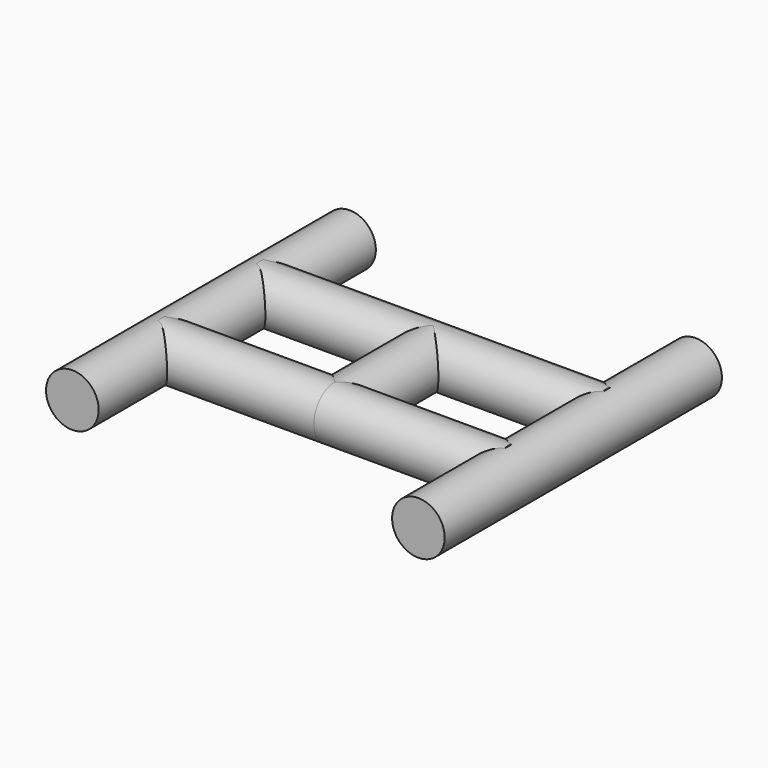
from build123d import *

# Parameters (mm, degrees)
F0_R     = 30
F1_DEPTH = 197.5
F2_DEPTH = 70
F4_DEPTH = 197.5


with BuildPart() as f1:
    # F0 (on Front) → F1 (new body, symmetric)
    with BuildSketch(Plane.XZ):
        with Locations((-197.25, -0.4860334448)):
            Circle(F0_R)
    extrude(amount=F1_DEPTH, both=True)



with BuildPart() as f1b:
    # F0 (on Front) → F1, piece 2 (new body, symmetric)
    with BuildSketch(Plane.XZ):
        with Locations((197.25, -0.4860334448)):
            Circle(F0_R)
    extrude(amount=F1_DEPTH, both=True)


with BuildPart() as f2:
    # F0 (on Front) → F2 (new body, symmetric)
    with BuildSketch(Plane.XZ):
        Circle(F0_R)
    extrude(amount=F2_DEPTH, both=True)


with BuildPart() as f1_1:
    add(f1.part)

    add(f1b.part)  # F4 merges F1b

    add(f2.part)  # F4 merges F2
    # F3 (on Right) → F4 (join, symmetric)
    with BuildSketch(Plane.YZ):
        with BuildLine():
            Line((-70, 30), (-70, -30))
            ThreePointArc((-70, -30), (-48.7867965644, -21.2132034356), (-40, 0))
            ThreePointArc((-40, 0), (-48.7867965644, 21.2132034356), (-70, 30))
        make_face()
        with BuildLine():
            ThreePointArc((70, 30), (40, 0), (70, -30))
            Line((70, -30), (70, 30))
        make_face()
        with BuildLine():
            ThreePointArc((-70, 30), (-100, 0), (-70, -30))
            Line((-70, -30), (-70, 30))
        make_face()
        with BuildLine():
            Line((70, 30), (70, -30))
            ThreePointArc((70, -30), (91.2132034356, -21.2132034356), (100, 0))
            ThreePointArc((100, 0), (91.2132034356, 21.2132034356), (70, 30))
        make_face()
    extrude(amount=F4_DEPTH, both=True)


solid = f1_1.part
